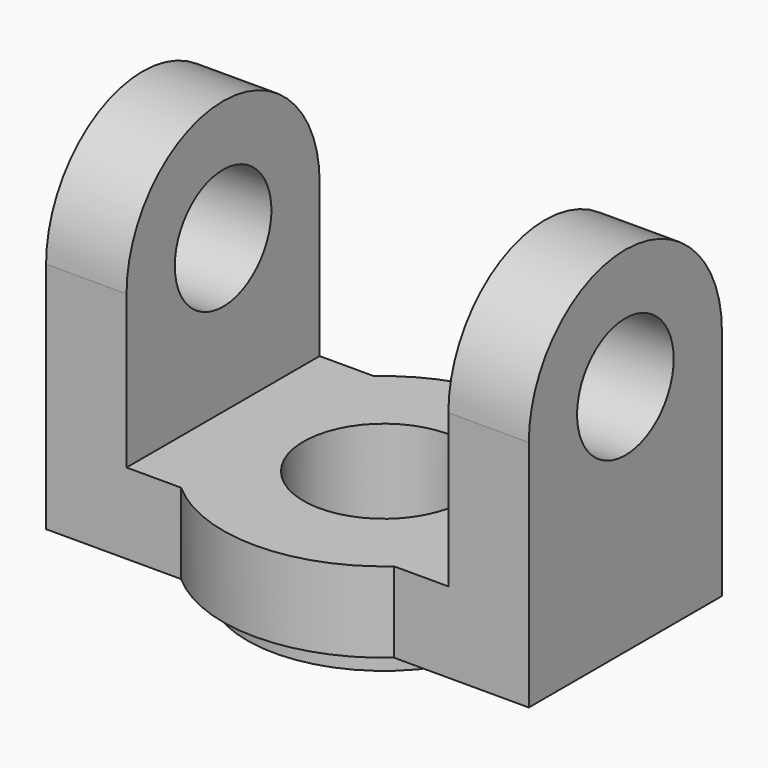
from build123d import *

# Parameters (mm, degrees)
F0_R     = 10
F1_DEPTH = 10
F4_R     = 17
F4_R_2   = 10
F5_DEPTH = 3
F3_R     = 7.5
F6_DEPTH = 10
F7_R     = 7.5
F8_DEPTH = 10


with BuildPart() as f1:
    # F0 (on Top) → F1 (new body)
    with BuildSketch(Plane.XY):
        with BuildLine():
            Line((-13.2287565553, 15), (-30, 15))
            Line((-30, 15), (-30, -15))
            Line((-30, -15), (-13.2287565553, -15))
            ThreePointArc((-13.2287565553, -15), (0, -20), (13.2287565553, -15))
            Line((13.2287565553, -15), (30, -15))
            Line((30, -15), (30, 15))
            Line((30, 15), (13.2287565553, 15))
            ThreePointArc((13.2287565553, 15), (0, 20), (-13.2287565553, 15))
        make_face()
        Circle(F0_R, mode=Mode.SUBTRACT)
    extrude(amount=F1_DEPTH)

    # F4 (on Top) → F5 (join)
    with BuildSketch(Plane.XY):
        Circle(F4_R)
        Circle(F4_R_2, mode=Mode.SUBTRACT)
    extrude(amount=-F5_DEPTH)

    # F3 (on offset) → F6 (join)
    with BuildSketch(Plane.YZ.offset(30)):
        with BuildLine():
            Line((-15, 29), (-15, 0))
            Line((-15, 0), (15, 0))
            Line((15, 0), (15, 29))
            ThreePointArc((15, 29), (0, 44), (-15, 29))
        make_face()
        with Locations((0, 29)):
            Circle(F3_R, mode=Mode.SUBTRACT)
    extrude(amount=-F6_DEPTH)

    # F7 (on face) → F8 (join)
    with BuildSketch(Plane(origin=(-30, 0, 0), x_dir=(0, -1, 0), z_dir=(-1, 0, 0))):
        with BuildLine():
            Line((-15, 29), (-15, 0))
            Line((-15, 0), (15, 0))
            Line((15, 0), (15, 29))
            ThreePointArc((15, 29), (0, 44), (-15, 29))
        make_face()
        with Locations((0, 29)):
            Circle(F7_R, mode=Mode.SUBTRACT)
    extrude(amount=-F8_DEPTH)


solid = f1.part
